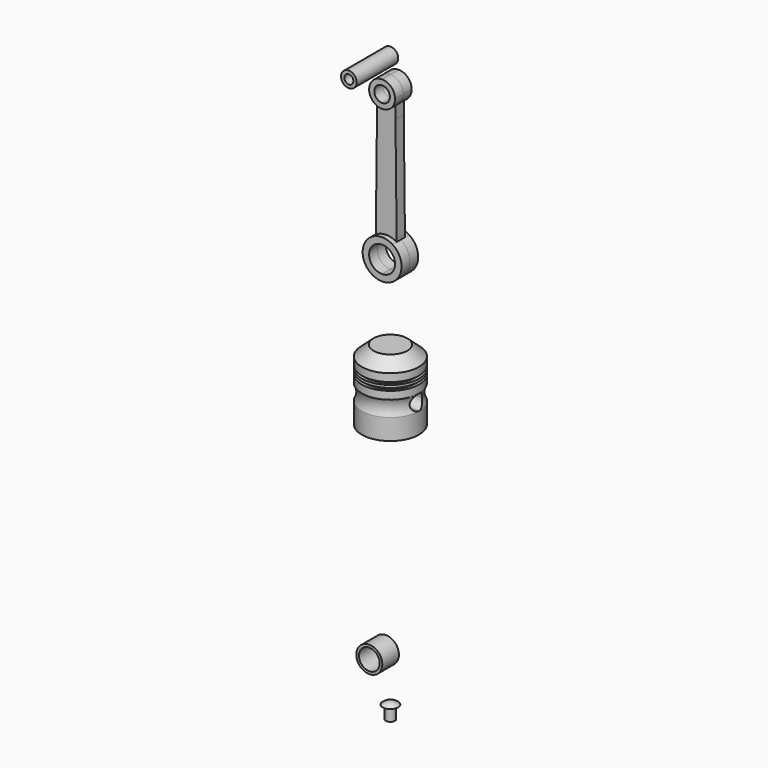
from build123d import *

# Parameters (mm, degrees)
F0_W      = 11
F0_H      = 8
F0_W_2    = 9.75
F0_H_2    = 1
F0_W_3    = 1.25
F3_DEPTH  = 12.5
F5_DEPTH  = 19
F8_DEPTH  = 2
F9_DEPTH  = 4
F11_R     = 3
F11_R_2   = 1.75
F12_DEPTH = 20
F16_R     = 5
F16_R_2   = 4
F17_DEPTH = 8


with BuildPart() as f1:
    # F0 (on Front) → F1 (revolve)
    with BuildSketch(Plane.XZ):
        with Locations((5.5, 4)):
            Rectangle(F0_W, F0_H)
        with BuildLine():
            Line((0, 14), (0, 8))
            Line((0, 8), (11, 8))
            ThreePointArc((11, 8), (10.2506660352, 11), (11, 14))
            Line((11, 14), (0, 14))
        make_face()
        Polygon((0, 17), (0, 14), (11, 14), (11, 17), (9.75, 17), align=None)
        with Locations((4.875, 17.5)):
            Rectangle(F0_W_2, F0_H_2)
        with Locations((4.875, 18.5)):
            Rectangle(F0_W_2, F0_H_2)
        with Locations((10.375, 18.5)):
            Rectangle(F0_W_3, F0_H_2)
        Polygon((0, 23), (0, 19), (9.75, 19), (9.75, 20), (11, 20), (11, 23), align=None)
        Polygon((0, 27), (0, 23), (11, 23), (6.5, 27), align=None)
    revolve(axis=Axis((0, 0, 13.5), (0, 0, 1)))

    # F2 (on Right) → F3 (cut, symmetric)
    with BuildSketch(Plane.YZ):
        with BuildLine():
            ThreePointArc((0, 8), (2.1213203436, 8.8786796564), (3, 11))
            ThreePointArc((3, 11), (-2.1213203436, 13.1213203436), (0, 8))
        make_face()
    extrude(amount=F3_DEPTH, both=True, mode=Mode.SUBTRACT)

    # F4 (on face) → F5 (cut)
    with BuildSketch(Plane(origin=(0, 0, 0), x_dir=(1, 0, 0), z_dir=(0, 0, -1))):
        with BuildLine():
            Line((5, -3.5), (5, 0))
            Line((5, 0), (5, 3.5))
            ThreePointArc((5, 3.5), (0, 8.5), (-5, 3.5))
            Line((-5, 3.5), (-5, -3.5))
            ThreePointArc((-5, -3.5), (0, -8.5), (5, -3.5))
        make_face()
    extrude(amount=-F5_DEPTH, mode=Mode.SUBTRACT)


with BuildPart() as f1_1:
    # F6: moved
    add(f1.part.moved(Location((0, 0, 100))))


with BuildPart() as f8:
    # F7 (on Front) → F8 (new body, symmetric)
    with BuildSketch(Plane.XZ):
        with BuildLine():
            Line((-4, 15), (-4, 13.8442887702))
            ThreePointArc((-4, 13.8442887702), (-2.0818062138, 14.7052815967), (0, 15))
            Line((0, 15), (0, 58.5))
            ThreePointArc((0, 58.5), (-1.9275815356, 58.8864948875), (-3.5571629078, 59.9862282306))
            Line((-3.5571629078, 59.9862282306), (-3.5571629078, 55.2724981673))
            Line((-3.5571629078, 55.2724981673), (-4, 15))
        make_face()
        with BuildLine():
            Line((0, 58.5), (0, 15))
            Line((0, 15), (4, 15))
            Line((4, 15), (3.5571629078, 55.2724981673))
            Line((3.5571629078, 55.2724981673), (3.5571629078, 59.9862282306))
            ThreePointArc((3.5571629078, 59.9862282306), (1.9275815356, 58.8864948875), (0, 58.5))
        make_face()
        with BuildLine():
            Line((4, 15), (0, 15))
            ThreePointArc((0, 15), (2.0818062138, 14.7052815967), (4, 13.8442887702))
            Line((4, 13.8442887702), (4, 15))
        make_face()
    extrude(amount=F8_DEPTH, both=True)

    # F7 (on Front) → F9 (join, symmetric)
    with BuildSketch(Plane.XZ):
        with BuildLine():
            ThreePointArc((-3.5571629078, 59.9862282306), (-1.9275815356, 58.8864948875), (0, 58.5))
            Line((0, 58.5), (0, 60.5))
            ThreePointArc((0, 60.5), (-3, 63.5), (0, 66.5))
            Line((0, 66.5), (0, 68.5))
            ThreePointArc((0, 68.5), (-4.6135051125, 65.4275815356), (-3.5571629078, 59.9862282306))
        make_face()
        with BuildLine():
            Line((0, 60.5), (0, 58.5))
            ThreePointArc((0, 58.5), (1.9275815356, 58.8864948875), (3.5571629078, 59.9862282306))
            ThreePointArc((3.5571629078, 59.9862282306), (4.6252467253, 61.600765225), (5, 63.5))
            ThreePointArc((5, 63.5), (3.5355339059, 67.0355339059), (0, 68.5))
            Line((0, 68.5), (0, 66.5))
            ThreePointArc((0, 66.5), (2.1213203436, 65.6213203436), (3, 63.5))
            ThreePointArc((3, 63.5), (2.1213203436, 61.3786796564), (0, 60.5))
        make_face()
        with BuildLine():
            Line((0, 2.5), (0, 0))
            ThreePointArc((0, 0), (5.3033008589, 2.1966991411), (7.5, 7.5))
            ThreePointArc((7.5, 7.5), (6.5669627683, 11.1228441865), (4, 13.8442887702))
            ThreePointArc((4, 13.8442887702), (2.0818062138, 14.7052815967), (0, 15))
            Line((0, 15), (0, 12.5))
            ThreePointArc((0, 12.5), (3.5355339059, 11.0355339059), (5, 7.5))
            ThreePointArc((5, 7.5), (3.5355339059, 3.9644660941), (0, 2.5))
        make_face()
        with BuildLine():
            ThreePointArc((-4, 13.8442887702), (-7.2052815967, 5.4181937862), (0, 0))
            Line((0, 0), (0, 2.5))
            ThreePointArc((0, 2.5), (-5, 7.5), (0, 12.5))
            Line((0, 12.5), (0, 15))
            ThreePointArc((0, 15), (-2.0818062138, 14.7052815967), (-4, 13.8442887702))
        make_face()
    extrude(amount=F9_DEPTH, both=True)


with BuildPart() as f8_1:
    # F10: moved
    add(f8.part.moved(Location((0, 0, 150))))


with BuildPart() as f12:
    # F11 (on Front) → F12 (new body)
    with BuildSketch(Plane.XZ):
        Circle(F11_R)
        Circle(F11_R_2, mode=Mode.SUBTRACT)
    extrude(amount=F12_DEPTH)


with BuildPart() as f12_1:
    # F13: moved
    add(f12.part.moved(Location((0, 0, 225))))


with BuildPart() as f15:
    # F14 (on Front) → F15 (revolve)
    with BuildSketch(Plane.XZ):
        with BuildLine():
            Line((0, 5), (0, 0))
            Line((0, 0), (1.75, 0))
            Line((1.75, 0), (1.75, 5))
            Line((1.75, 5), (3, 5))
            ThreePointArc((3, 5), (1.605699404, 5.8496736491), (0, 6.1458980338))
            Line((0, 6.1458980338), (0, 5))
        make_face()
    revolve(axis=Axis((0, 0, 2.5), (0, 0, 1)))


with BuildPart() as f17:
    # F16 (on Front) → F17 (new body)
    with BuildSketch(Plane.XZ):
        with Locations((-1.7165085301, 22.9584053159)):
            Circle(F16_R)
        with Locations((-1.7165085301, 22.9584053159)):
            Circle(F16_R_2, mode=Mode.SUBTRACT)
    extrude(amount=F17_DEPTH)


solid = Compound([f1_1.part, f8_1.part, f12_1.part, f15.part, f17.part])
